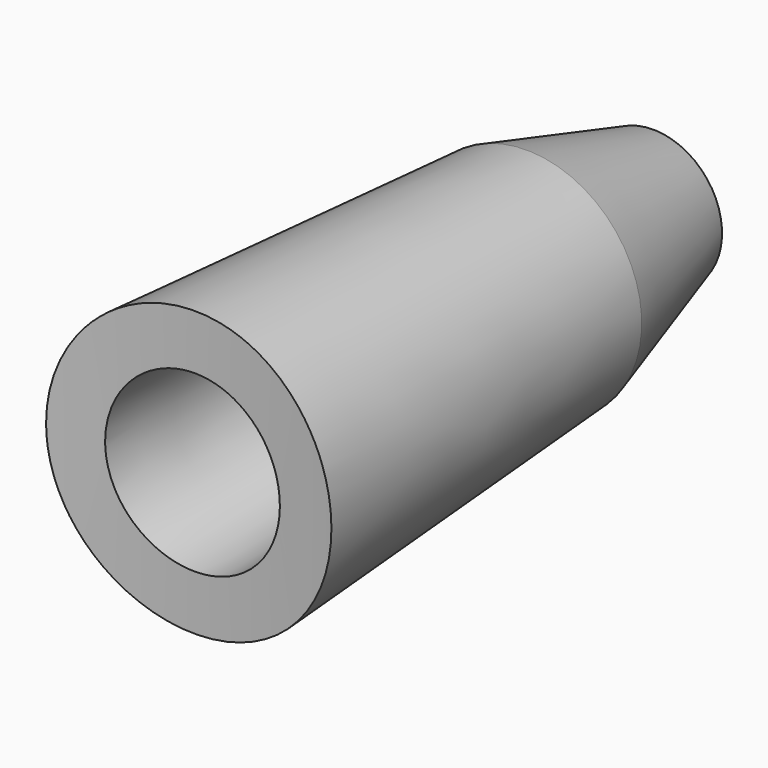
from build123d import *

# Parameters (mm, degrees)
F2_R     = 188.496796
F3_DEPTH = 25.4


with BuildPart() as f1:
    # F0 (on Top) → F1 (revolve)
    with BuildSketch(Plane.XY):
        Polygon((-19.685, 0), (-12.065, 0), (-10.795, 58.42), (-15.875, 58.42), align=None)
    revolve(axis=Axis((0, 29.21, 0), (0, -1, 0)))

    # F2 (on Top) → F3 (cut, symmetric)
    with BuildSketch(Plane.XY):
        with Locations((0, -187.268555)):
            Circle(F2_R)
    extrude(amount=F3_DEPTH, both=True, mode=Mode.SUBTRACT)

    # F4 (on Top) → F5 (revolve)
    with BuildSketch(Plane.XY):
        Polygon((-9.50494, 80.231339), (-15.875068, 58.412734), (-11.407575, 58.477067), (-6.329941, 80.231339), align=None)
    revolve(axis=Axis((0, 69.436338, 0), (0, -1, 0)))


solid = f1.part
